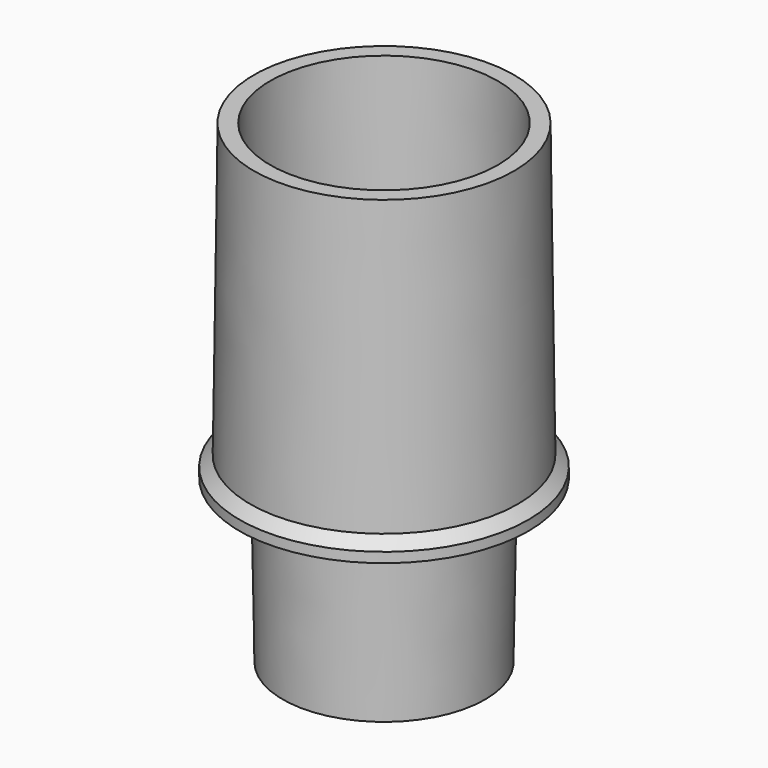
from build123d import *

# Parameters (mm, degrees)
F0_R     = 15.6
F0_R_2   = 13.1
F1_DEPTH = 25
F1_TAPER = -1
F2_R     = 22.25
F2_R_2   = 12.6635
F3_DEPTH = 3.15
F5_R     = 20.05
F5_R_2   = 17.55
F6_DEPTH = 45
F6_TAPER = -0.75
F7_SIZE  = 1.6109


with BuildPart() as f1:
    # F0 (on Top) → F1 (new body)
    with BuildSketch(Plane.XY):
        Circle(F0_R)
        Circle(F0_R_2, mode=Mode.SUBTRACT)
    extrude(amount=F1_DEPTH, taper=F1_TAPER)

    # F2 (on face) → F3 (join)
    with BuildSketch(Plane.XY.offset(25)):
        Circle(F2_R)
        Circle(F2_R_2, mode=Mode.SUBTRACT)
    extrude(amount=F3_DEPTH)

    # F5 (on offset) → F6 (join, through all)
    with BuildSketch(Plane.XY.offset(73.15)):
        Circle(F5_R)
        Circle(F5_R_2, mode=Mode.SUBTRACT)
    extrude(amount=-F6_DEPTH, taper=F6_TAPER)

    # F7
    f7_edges = [f1.edges().sort_by_distance(p)[0] for p in [
        (-22.25, 0, 28.15),
    ]]
    chamfer(f7_edges, length=F7_SIZE)


solid = f1.part
